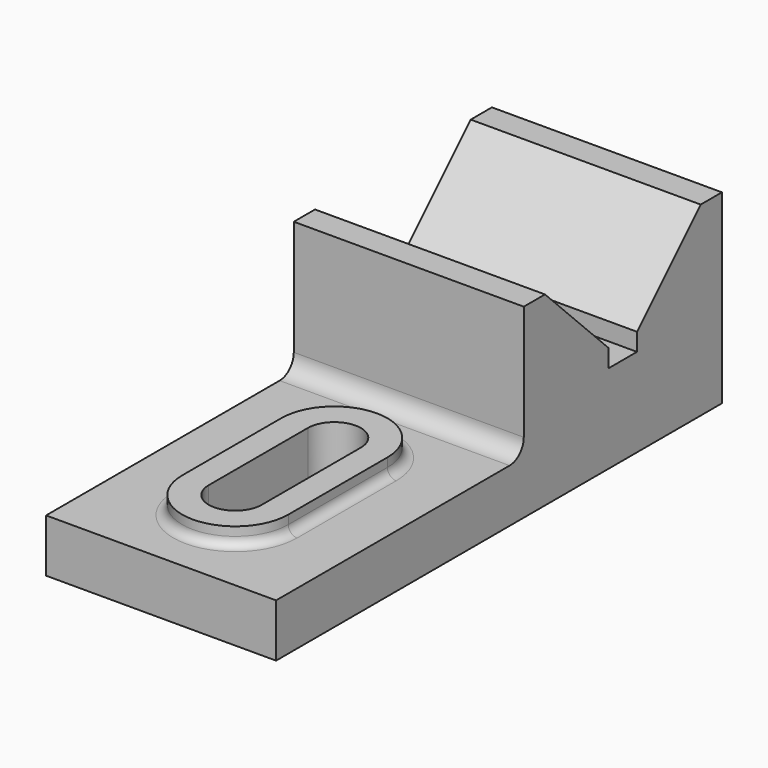
from build123d import *

# Parameters (mm, degrees)
F0_W      = 82.55
F0_H      = 66.675
F1_DEPTH  = 200.025
F2_W      = 111.125
F2_H      = 47.625
F3_DEPTH  = 101.6
F4_R      = 6.35
F6_DEPTH  = 6.35
F7_R      = 3.175
F8_DEPTH  = 25.4
F10_DEPTH = 101.6
F11_DEPTH = 101.6


with BuildPart() as f1:
    # F0 (on Front) → F1 (new body)
    with BuildSketch(Plane.XZ):
        with Locations((41.275, 33.3375)):
            Rectangle(F0_W, F0_H)
    extrude(amount=F1_DEPTH)

    # F2 (on face) → F3 (cut)
    with BuildSketch(Plane(origin=(0, 0, 0), x_dir=(0, -1, 0), z_dir=(-1, 0, 0))):
        with Locations((144.4625, 42.8625)):
            Rectangle(F2_W, F2_H)
    extrude(amount=-F3_DEPTH, mode=Mode.SUBTRACT)

    # F4
    f4_edges = [f1.edges().sort_by_distance(p)[0] for p in [
        (41.275, -88.9, 19.05),
    ]]
    fillet(f4_edges, radius=F4_R)

    # F5 (on face) → F6 (join)
    with BuildSketch(Plane.XY.offset(19.05)):
        with BuildLine():
            ThreePointArc((50.8, -138.7962480496), (57.7727839421, -131.8234641075), (60.325, -122.2984641075))
            ThreePointArc((60.325, -122.2984641075), (41.275, -103.2484641075), (22.225, -122.2984641075))
            ThreePointArc((22.225, -122.2984641075), (24.7772160579, -131.8234641075), (31.75, -138.7962480496))
            Line((31.75, -138.7962480496), (31.75, -122.2984641075))
            ThreePointArc((31.75, -122.2984641075), (41.275, -112.7734641075), (50.8, -122.2984641075))
            Line((50.8, -122.2984641075), (50.8, -138.7962480496))
        make_face()
        with BuildLine():
            ThreePointArc((31.75, -138.7962480496), (24.7772160579, -131.8234641075), (22.225, -122.2984641075))
            Line((22.225, -122.2984641075), (22.225, -166.7484641075))
            ThreePointArc((22.225, -166.7484641075), (24.7772160579, -157.2234641075), (31.75, -150.2506801654))
            Line((31.75, -150.2506801654), (31.75, -138.7962480496))
        make_face()
        with BuildLine():
            Line((60.325, -166.7484641075), (60.325, -122.2984641075))
            ThreePointArc((60.325, -122.2984641075), (57.7727839421, -131.8234641075), (50.8, -138.7962480496))
            Line((50.8, -138.7962480496), (50.8, -150.2506801654))
            ThreePointArc((50.8, -150.2506801654), (57.7727839421, -157.2234641075), (60.325, -166.7484641075))
        make_face()
        with BuildLine():
            ThreePointArc((22.225, -166.7484641075), (41.275, -185.7984641075), (60.325, -166.7484641075))
            ThreePointArc((60.325, -166.7484641075), (57.7727839421, -157.2234641075), (50.8, -150.2506801654))
            Line((50.8, -150.2506801654), (50.8, -166.7484641075))
            ThreePointArc((50.8, -166.7484641075), (41.275, -176.2734641075), (31.75, -166.7484641075))
            Line((31.75, -166.7484641075), (31.75, -150.2506801654))
            ThreePointArc((31.75, -150.2506801654), (24.7772160579, -157.2234641075), (22.225, -166.7484641075))
        make_face()
    extrude(amount=F6_DEPTH)

    # F7
    f7_edges = [f1.edges().sort_by_distance(p)[0] for p in [
        (22.225, -144.523464, 19.05),
    ]]
    fillet(f7_edges, radius=F7_R)

    # F5 (on face) → F8 (cut)
    with BuildSketch(Plane.XY.offset(19.05)):
        with BuildLine():
            ThreePointArc((31.75, -122.2984641075), (41.275, -131.8234641075), (50.8, -122.2984641075))
            ThreePointArc((50.8, -122.2984641075), (41.275, -112.7734641075), (31.75, -122.2984641075))
        make_face()
        with BuildLine():
            ThreePointArc((31.75, -138.7962480496), (41.275, -141.3484641075), (50.8, -138.7962480496))
            Line((50.8, -138.7962480496), (50.8, -122.2984641075))
            ThreePointArc((50.8, -122.2984641075), (41.275, -131.8234641075), (31.75, -122.2984641075))
            Line((31.75, -122.2984641075), (31.75, -138.7962480496))
        make_face()
        with BuildLine():
            Line((50.8, -150.2506801654), (50.8, -138.7962480496))
            ThreePointArc((50.8, -138.7962480496), (41.275, -141.3484641075), (31.75, -138.7962480496))
            Line((31.75, -138.7962480496), (31.75, -150.2506801654))
            ThreePointArc((31.75, -150.2506801654), (41.275, -147.6984641075), (50.8, -150.2506801654))
        make_face()
        with BuildLine():
            Line((50.8, -166.7484641075), (50.8, -150.2506801654))
            ThreePointArc((50.8, -150.2506801654), (41.275, -147.6984641075), (31.75, -150.2506801654))
            Line((31.75, -150.2506801654), (31.75, -166.7484641075))
            ThreePointArc((31.75, -166.7484641075), (41.275, -157.2234641075), (50.8, -166.7484641075))
        make_face()
        with BuildLine():
            ThreePointArc((31.75, -166.7484641075), (41.275, -176.2734641075), (50.8, -166.7484641075))
            ThreePointArc((50.8, -166.7484641075), (41.275, -157.2234641075), (31.75, -166.7484641075))
        make_face()
    extrude(amount=-F8_DEPTH, mode=Mode.SUBTRACT)

    # F9 (on face) → F10 (cut)
    with BuildSketch(Plane(origin=(0, 0, 0), x_dir=(0, -1, 0), z_dir=(-1, 0, 0))):
        Polygon((44.45, 38.1), (38.1, 38.1), (44.45, 31.75), align=None)
        Polygon((44.45, 31.75), (38.1, 38.1), (38.1, 31.75), align=None)
        Polygon((50.8, 38.1), (44.45, 38.1), (44.45, 31.75), align=None)
        Polygon((50.8, 38.1), (44.45, 31.75), (50.8, 31.75), align=None)
    extrude(amount=-F10_DEPTH, mode=Mode.SUBTRACT)

    # F9 (on face) → F11 (cut)
    with BuildSketch(Plane(origin=(0, 0, 0), x_dir=(0, -1, 0), z_dir=(-1, 0, 0))):
        Polygon((44.45, 66.675), (9.525, 66.675), (38.1, 38.1), (44.45, 38.1), align=None)
        Polygon((79.375, 66.675), (44.45, 66.675), (44.45, 38.1), (50.8, 38.1), align=None)
    extrude(amount=-F11_DEPTH, mode=Mode.SUBTRACT)


solid = f1.part
